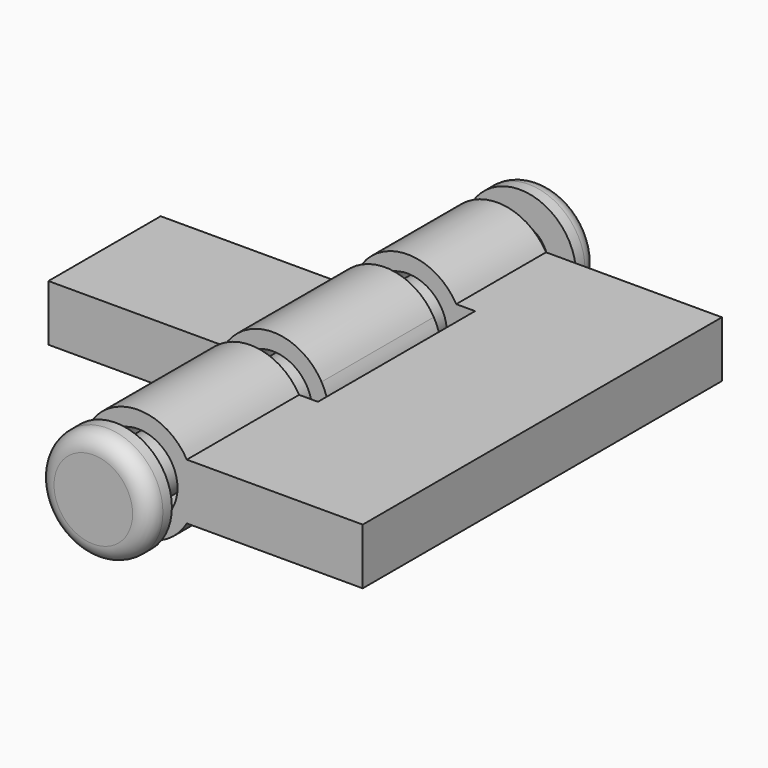
from build123d import *

# Parameters (mm, degrees)
F0_W      = 1.27
F0_H      = 1.27
F0_H_2    = 22.86
F4_DEPTH  = 6.35
F3_W      = 7.1074573154
F3_H      = 2.54
F5_DEPTH  = 20.32
F8_DEPTH  = 5.08
F10_R     = 1.778
F11_DEPTH = 6.35


with BuildPart() as f1:
    # F0 (on Top) → F1 (revolve)
    with BuildSketch(Plane.XY):
        with Locations((0.635, 12.065)):
            Rectangle(F0_W, F0_H)
        with BuildLine():
            Line((1.778, 12.7), (1.27, 12.7))
            Line((1.27, 12.7), (1.27, 11.43))
            Line((1.27, 11.43), (2.54, 11.43))
            Line((2.54, 11.43), (2.54, 11.938))
            ThreePointArc((2.54, 11.938), (2.3168153673, 12.4768153673), (1.778, 12.7))
        make_face()
        with Locations((0.635, -12.065)):
            Rectangle(F0_W, F0_H)
        with Locations((0.635, 12.065)):
            Rectangle(F0_W, F0_H)
        with Locations((0.635, 0)):
            Rectangle(F0_W, F0_H_2)
        with Locations((0.635, -12.065)):
            Rectangle(F0_W, F0_H)
        with BuildLine():
            Line((2.54, -11.43), (1.27, -11.43))
            Line((1.27, -11.43), (1.27, -12.7))
            Line((1.27, -12.7), (1.778, -12.7))
            ThreePointArc((1.778, -12.7), (2.3168153673, -12.4768153673), (2.54, -11.938))
            Line((2.54, -11.938), (2.54, -11.43))
        make_face()
    revolve(axis=Axis((0, 0, 0), (0, -1, 0)))


with BuildPart() as f4:
    # F3 (on offset) → F4 (new body)
    with BuildSketch(Plane.XZ.offset(10.16)):
        with BuildLine():
            ThreePointArc((1.2443407893, 1.27), (1.6391647146, 0.6887837384), (1.778, 0))
            ThreePointArc((1.778, 0), (1.6391647146, -0.6887837384), (1.2443407893, -1.27))
            Line((1.2443407893, -1.27), (2.1997045256, -1.27))
            Line((2.1997045256, -1.27), (2.1997045256, 1.27))
            Line((2.1997045256, 1.27), (1.2443407893, 1.27))
        make_face()
        with BuildLine():
            ThreePointArc((1.2443407893, 1.27), (1.6391647146, 0.6887837384), (1.778, 0))
            ThreePointArc((1.778, 0), (1.6391647146, -0.6887837384), (1.2443407893, -1.27))
            Line((1.2443407893, -1.27), (2.1997045256, -1.27))
            Line((2.1997045256, -1.27), (2.1997045256, 1.27))
            Line((2.1997045256, 1.27), (1.2443407893, 1.27))
        make_face()
        with BuildLine():
            ThreePointArc((2.54, 0), (2.4534515988, 0.6574003746), (2.1997045256, 1.27))
            Line((2.1997045256, 1.27), (2.1997045256, -1.27))
            ThreePointArc((2.1997045256, -1.27), (2.4534515988, -0.6574003746), (2.54, 0))
        make_face()
        with BuildLine():
            Line((3.0525426846, 1.27), (2.1997045256, 1.27))
            ThreePointArc((2.1997045256, 1.27), (2.4534515988, 0.6574003746), (2.54, 0))
            ThreePointArc((2.54, 0), (2.4534515988, -0.6574003746), (2.1997045256, -1.27))
            Line((2.1997045256, -1.27), (3.0525426846, -1.27))
            Line((3.0525426846, -1.27), (3.0525426846, 1.27))
        make_face()
        with BuildLine():
            ThreePointArc((1.2443407893, -1.27), (-1.778, 0), (1.2443407893, 1.27))
            Line((1.2443407893, 1.27), (2.1997045256, 1.27))
            ThreePointArc((2.1997045256, 1.27), (-2.54, 0), (2.1997045256, -1.27))
            Line((2.1997045256, -1.27), (1.2443407893, -1.27))
        make_face()
    extrude(amount=-F4_DEPTH)

    # F3 (on offset) → F5 (join)
    with BuildSketch(Plane.XZ.offset(10.16)):
        with Locations((6.6062713423, 0)):
            Rectangle(F3_W, F3_H)
    extrude(amount=-F5_DEPTH)

    # F7 (on offset) → F8 (join)
    with BuildSketch(Plane.XZ.offset(-5.08)):
        with BuildLine():
            Line((1.2443407893, 1.27), (2.1997045256, 1.27))
            ThreePointArc((2.1997045256, 1.27), (-2.54, 0), (2.1997045256, -1.27))
            Line((2.1997045256, -1.27), (1.2443407893, -1.27))
            ThreePointArc((1.2443407893, -1.27), (-1.778, 0), (1.2443407893, 1.27))
        make_face()
        with BuildLine():
            ThreePointArc((2.1997045256, -1.27), (2.4534515988, -0.6574003746), (2.54, 0))
            ThreePointArc((2.54, 0), (2.4534515988, 0.6574003746), (2.1997045256, 1.27))
            Line((2.1997045256, 1.27), (1.2443407893, 1.27))
            ThreePointArc((1.2443407893, 1.27), (1.6391647146, 0.6887837384), (1.778, 0))
            ThreePointArc((1.778, 0), (1.6391647146, -0.6887837384), (1.2443407893, -1.27))
            Line((1.2443407893, -1.27), (2.1997045256, -1.27))
        make_face()
        with BuildLine():
            ThreePointArc((2.1997045256, 1.27), (2.4534515988, 0.6574003746), (2.54, 0))
            ThreePointArc((2.54, 0), (2.4534515988, -0.6574003746), (2.1997045256, -1.27))
            Line((2.1997045256, -1.27), (3.0525426846, -1.27))
            Line((3.0525426846, -1.27), (3.0525426846, 1.27))
            Line((3.0525426846, 1.27), (2.1997045256, 1.27))
        make_face()
    extrude(amount=-F8_DEPTH)


with BuildPart() as f11:
    # F10 (on offset) → F11 (new body)
    with BuildSketch(Plane.XZ.offset(2.54)):
        with BuildLine():
            ThreePointArc((-2.1997045256, 1.27), (-2.54, 0), (-2.1997045256, -1.27))
            Line((-2.1997045256, -1.27), (-2.1997045256, 1.27))
        make_face()
        with BuildLine():
            ThreePointArc((-2.1997045256, -1.27), (0.6574003746, -2.4534515988), (2.54, 0))
            ThreePointArc((2.54, 0), (2.4534515988, 0.6574003746), (2.1997045256, 1.27))
            ThreePointArc((2.1997045256, 1.27), (0, 2.54), (-2.1997045256, 1.27))
            Line((-2.1997045256, 1.27), (-2.1997045256, -1.27))
        make_face()
        Circle(F10_R, mode=Mode.SUBTRACT)
        with BuildLine():
            ThreePointArc((-2.1997045256, 1.27), (-2.54, 0), (-2.1997045256, -1.27))
            Line((-2.1997045256, -1.27), (-2.1997045256, 1.27))
        make_face()
        with BuildLine():
            Line((-10.16, -1.27), (-2.1997045256, -1.27))
            ThreePointArc((-2.1997045256, -1.27), (-2.54, 0), (-2.1997045256, 1.27))
            Line((-2.1997045256, 1.27), (-10.16, 1.27))
            Line((-10.16, 1.27), (-10.16, -1.27))
        make_face()
    extrude(amount=-F11_DEPTH)


solid = Compound([f1.part, f4.part, f11.part])
